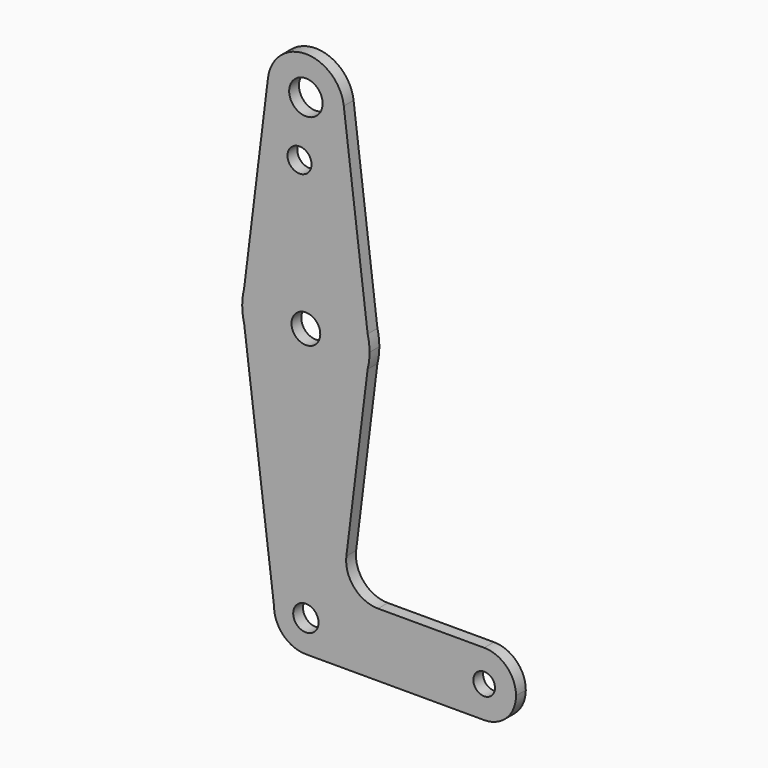
from build123d import *

# Parameters (mm, degrees)
F0_R     = 4.166929
F0_R_2   = 2.993412
F0_R_3   = 3.585672
F0_R_4   = 3.156954
F0_R_5   = 2.701819
F1_DEPTH = 3.048


with BuildPart() as f1:
    # F0 (on Front) → F1 (new body)
    with BuildSketch(Plane.XZ):
        with BuildLine():
            ThreePointArc((-9.453097, 115.468155), (-0.585183, 104.792993), (9.525, 114.3))
            ThreePointArc((9.525, 114.3), (9.507007, 114.885183), (9.453097, 115.468155))
            ThreePointArc((9.453097, 115.468155), (0, 123.825), (-9.453097, 115.468155))
        make_face()
        with Locations((0, 114.3)):
            Circle(F0_R, mode=Mode.SUBTRACT)
        with BuildLine():
            ThreePointArc((9.453097, 115.468155), (9.507007, 114.885183), (9.525, 114.3))
            ThreePointArc((9.525, 114.3), (-0.585183, 104.792993), (-9.453097, 115.468155))
            Line((-9.453097, 115.468155), (-15.397454, 67.364457))
            ThreePointArc((-15.397454, 67.364457), (0, 79.375), (15.397454, 67.364457))
            Line((15.397454, 67.364457), (9.453097, 115.468155))
        make_face()
        with Locations((-1.5875, 100.0252)):
            Circle(F0_R_2, mode=Mode.SUBTRACT)
        with BuildLine():
            ThreePointArc((15.875, 63.5), (15.755161, 65.446925), (15.397454, 67.364457))
            ThreePointArc((15.397454, 67.364457), (0, 79.375), (-15.397454, 67.364457))
            ThreePointArc((-15.397454, 67.364457), (-15.755161, 65.446925), (-15.875, 63.5))
            Line((-15.875, 63.5), (-15.386538, 59.592308))
            ThreePointArc((-15.386538, 59.592308), (0.014976, 47.625007), (15.393884, 59.621345))
            Line((15.393884, 59.621345), (15.875, 63.5))
        make_face()
        with Locations((0, 63.5)):
            Circle(F0_R_3, mode=Mode.SUBTRACT)
        with BuildLine():
            ThreePointArc((15.393884, 59.621345), (15.754262, 61.54581), (15.875, 63.5))
            Line((15.875, 63.5), (15.393884, 59.621345))
        make_face()
        with BuildLine():
            Line((-15.386538, 59.592308), (-15.875, 63.5))
            ThreePointArc((-15.875, 63.5), (-15.752411, 61.530949), (-15.386538, 59.592308))
        make_face()
        with BuildLine():
            Line((10.090469, 16.866359), (15.393884, 59.621345))
            ThreePointArc((15.393884, 59.621345), (0.014976, 47.625007), (-15.386538, 59.592308))
            Line((-15.386538, 59.592308), (-7.9375, 0))
            ThreePointArc((-7.9375, 0), (0, 7.9375), (7.9375, 0))
            ThreePointArc((7.9375, 0), (5.61266, -5.61266), (0, -7.9375))
            Line((0, -7.9375), (44.45, -7.9375))
            ThreePointArc((44.45, -7.9375), (36.5125, 0), (44.45, 7.9375))
            Line((44.45, 7.9375), (17.980203, 7.9375))
            ThreePointArc((17.980203, 7.9375), (12.022594, 10.623427), (10.090469, 16.866359))
        make_face()
        with BuildLine():
            ThreePointArc((7.9375, 0), (0, 7.9375), (-7.9375, 0))
            ThreePointArc((-7.9375, 0), (-5.61266, -5.61266), (0, -7.9375))
            ThreePointArc((0, -7.9375), (5.61266, -5.61266), (7.9375, 0))
        make_face()
        Circle(F0_R_4, mode=Mode.SUBTRACT)
        with BuildLine():
            ThreePointArc((52.3875, 0), (50.06266, 5.61266), (44.45, 7.9375))
            ThreePointArc((44.45, 7.9375), (36.5125, 0), (44.45, -7.9375))
            ThreePointArc((44.45, -7.9375), (50.06266, -5.61266), (52.3875, 0))
        make_face()
        with Locations((44.45, 0)):
            Circle(F0_R_5, mode=Mode.SUBTRACT)
    extrude(amount=F1_DEPTH)


solid = f1.part
